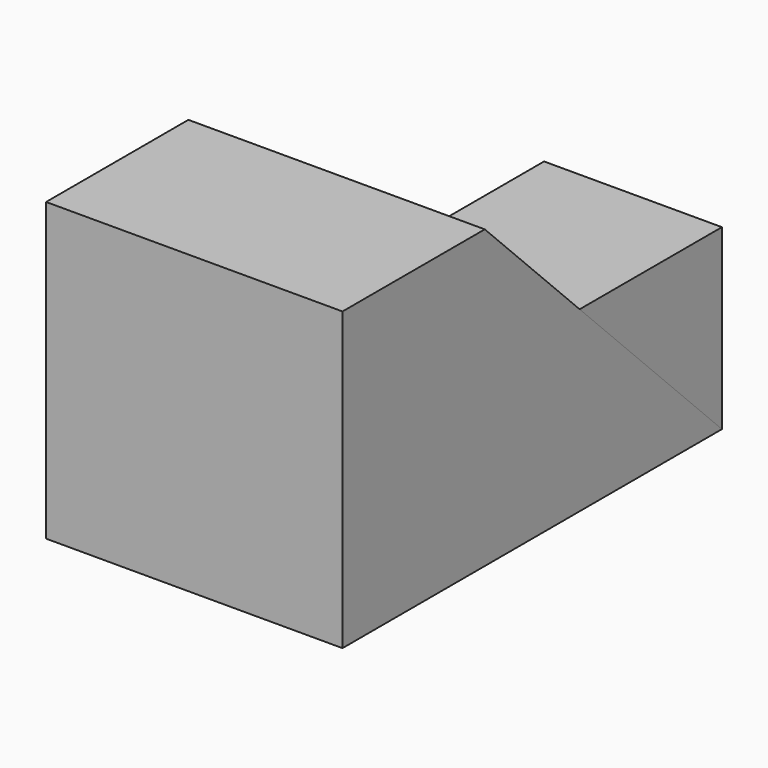
from build123d import *

# Parameters (mm, degrees)
F0_W     = 50.8
F0_H     = 31.75
F1_DEPTH = 31.75
F3_DEPTH = 31.75
F5_DEPTH = 19.05


with BuildPart() as f1:
    # F0 (on Right) → F1 (new body)
    with BuildSketch(Plane.YZ):
        with Locations((36.313413, 47.727232)):
            Rectangle(F0_W, F0_H)
    extrude(amount=F1_DEPTH)

    # F2 (on face) → F3 (cut)
    with BuildSketch(Plane.YZ.offset(31.75)):
        Polygon((61.713413, 63.602232), (29.963413, 63.602232), (61.713413, 31.852232), align=None)
    extrude(amount=-F3_DEPTH, mode=Mode.SUBTRACT)


with BuildPart() as f5:
    # F4 (on face) → F5 (new body)
    with BuildSketch(Plane.YZ.offset(31.75)):
        Polygon((61.713413, 50.902232), (42.663413, 50.902232), (61.713413, 31.852232), align=None)
    extrude(amount=-F5_DEPTH)


solid = Compound([f1.part, f5.part])
